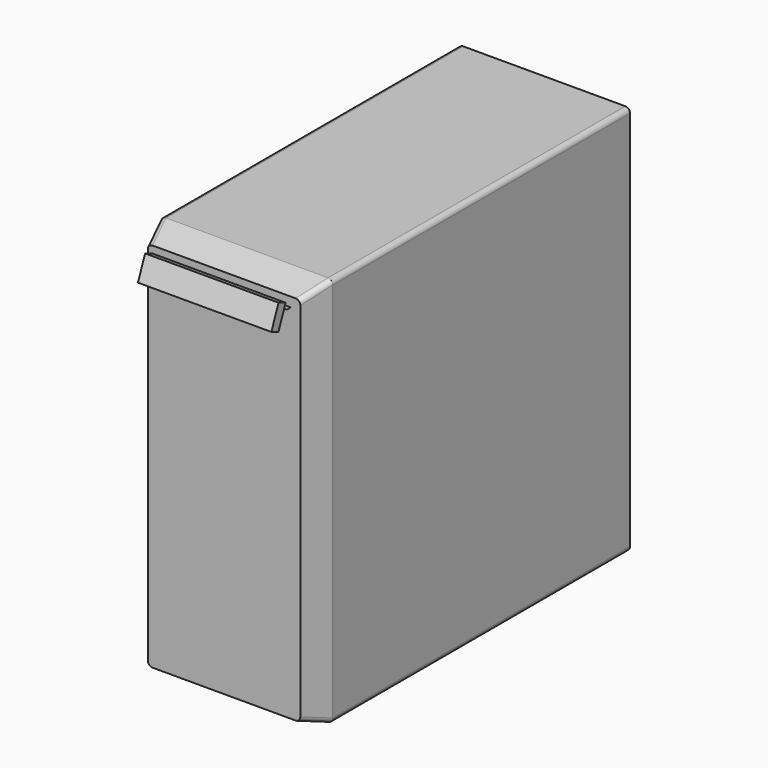
from build123d import *

# Parameters (mm, degrees)
F0_W      = 180
F0_H      = 390
F1_DEPTH  = 410
F2_R      = 5
F8_DEPTH  = 5
F7_W      = 140
F7_H      = 10
F9_DEPTH  = 25
F10_ANGLE = 67.9004960609


with BuildPart() as f1:
    # F0 (on Top) → F1 (new body)
    with BuildSketch(Plane.XY):
        Rectangle(F0_W, F0_H)
    extrude(amount=F1_DEPTH)

    # F2
    f2_edges = [f1.edges().sort_by_distance(p)[0] for p in [
        (90, 0, 410),
        (-90, 0, 410),
        (90, 0, 0),
        (-90, 0, 0),
    ]]
    fillet(f2_edges, radius=F2_R)

    # F4 (on offset) → F6 section 0
    with BuildSketch(Plane.XZ.offset(225)):
        with BuildLine():
            Line((75, 400), (-75, 400))
            ThreePointArc((-75, 400), (-78.5355339059, 398.5355339059), (-80, 395))
            Line((-80, 395), (-80, 15))
            ThreePointArc((-80, 15), (-78.5355339059, 11.4644660941), (-75, 10))
            Line((-75, 10), (75, 10))
            ThreePointArc((75, 10), (78.5355339059, 11.4644660941), (80, 15))
            Line((80, 15), (80, 395))
            ThreePointArc((80, 395), (78.5355339059, 398.5355339059), (75, 400))
        make_face()
    # F5 (on face) → F6 section 1
    with BuildSketch(Plane.XZ.offset(195)):
        with BuildLine():
            Line((85, 410), (-85, 410))
            ThreePointArc((-85, 410), (-88.5355339059, 408.5355339059), (-90, 405))
            Line((-90, 405), (-90, 5))
            ThreePointArc((-90, 5), (-88.5355339059, 1.4644660941), (-85, 0))
            Line((-85, 0), (85, 0))
            ThreePointArc((85, 0), (88.5355339059, 1.4644660941), (90, 5))
            Line((90, 5), (90, 405))
            ThreePointArc((90, 405), (88.5355339059, 408.5355339059), (85, 410))
        make_face()
    loft()


with BuildPart() as f8:
    # F7 (on face) → F8 (new body)
    with BuildSketch(Plane.XZ.offset(225)):
        with BuildLine():
            add(Edge.make_bspline(
                [(70, 390), (37.5507314975, 387.9410181266), (5.1014629951, 385.8820362533), (0, 380)],
                knots=[0, 0, 0, 0, 0.7813658716, 0.7813658716, 0.7813658716, 0.7813658716], degree=3))
            Line((70, 390), (0, 390))
            Line((0, 390), (0, 380))
        make_face()
        with BuildLine():
            Line((0, 380), (0, 390))
            Line((0, 390), (-70, 390))
            add(Edge.make_bspline(
                [(-70, 390), (-37.5507314975, 387.9410181266), (-5.1014629951, 385.8820362533), (0, 380)],
                knots=[0, 0, 0, 0, 0.7813658716, 0.7813658716, 0.7813658716, 0.7813658716], degree=3))
        make_face()
    extrude(amount=F8_DEPTH)


with BuildPart() as f9:
    # F7 (on face) → F9 (new body)
    with BuildSketch(Plane.XZ.offset(225)):
        with Locations((0, 342.2095525265)):
            Rectangle(F7_W, F7_H)
    extrude(amount=F9_DEPTH)


with BuildPart() as f9_1:
    # F10: moved
    add(f9.part.rotate(Axis((0, -250, 337.2095525265), (1, 0, 0)), F10_ANGLE))


with BuildPart() as f9_2:
    # F11: moved
    add(f9_1.part.moved(Location((0, 8.8, 36.7))))


solid = Compound([f1.part, f8.part, f9_2.part])
